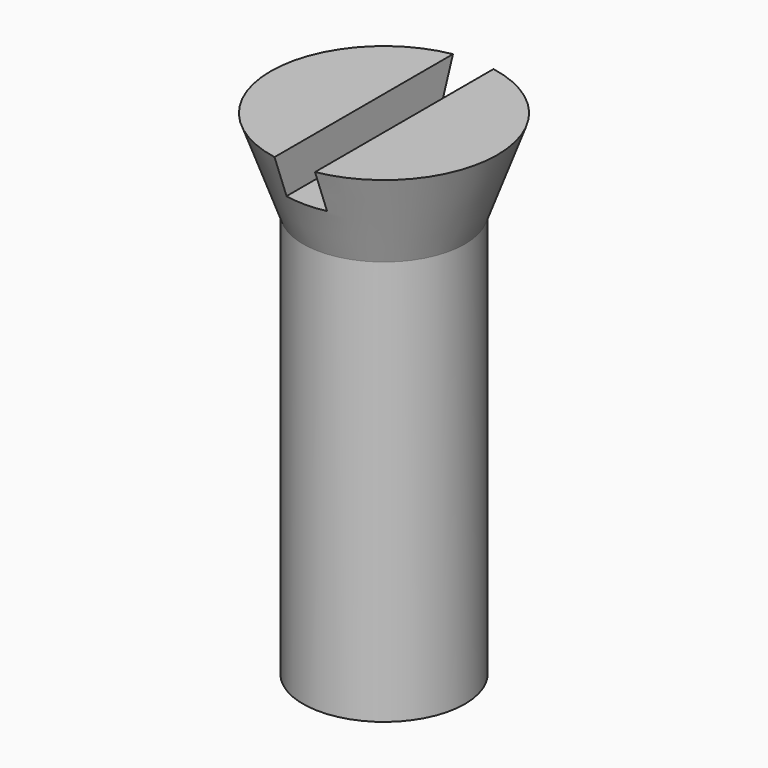
from build123d import *

# Parameters (mm, degrees)
BOX_W          = 1
BOX_H          = 10
BOX_DEPTH      = 1
CYLINDER_R     = 2
CYLINDER_DEPTH = 10


with BuildPart() as cube:
    # Box → Box (new body)
    with BuildSketch(Plane(origin=(-0.5, -4, 11.2), x_dir=(1, 0, 0), z_dir=(0, 0, 1))):
        with Locations((0.5, 5)):
            Rectangle(BOX_W, BOX_H)
    extrude(amount=BOX_DEPTH)


with BuildPart() as cut:
    # Cone → Cone (revolve)
    with BuildSketch(Plane(origin=(0, 0, 10), x_dir=(1, 0, 0), z_dir=(0, -1, 0))):
        Polygon((0, 0), (2, 0), (2.8, 2.2), (0, 2.2), align=None)
    revolve(axis=Axis((0, 0, 10), (0, 0, 1)))

    # Cut: cut Cube
    add(cube.part, mode=Mode.SUBTRACT)


with BuildPart() as cargol:
    # Cylinder → Cylinder (new body)
    with BuildSketch(Plane.XY):
        Circle(CYLINDER_R)
    extrude(amount=CYLINDER_DEPTH)

    # Fusion: union Cut
    add(cut.part)


solid = cargol.part
